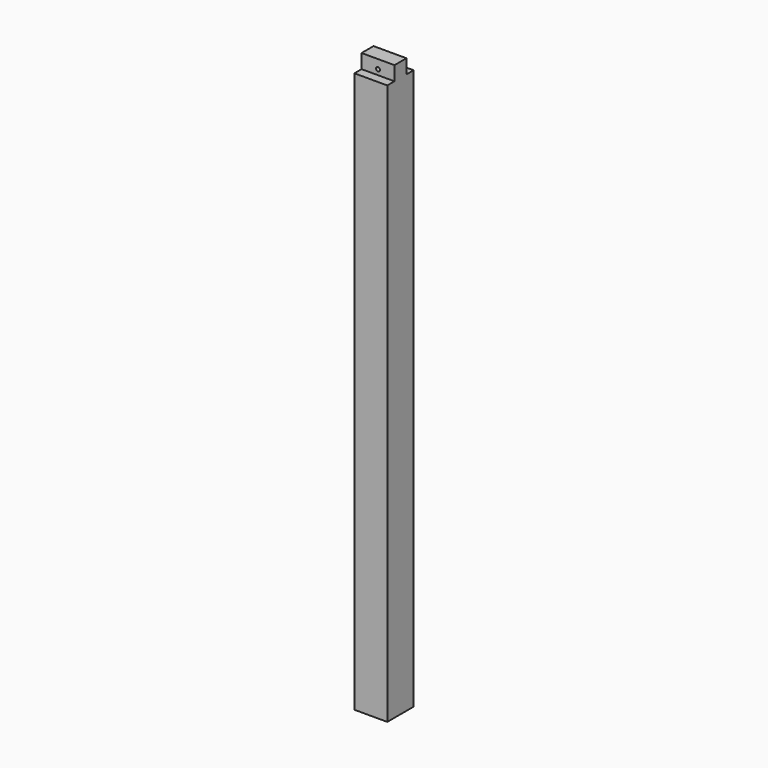
from build123d import *

# Parameters (mm, degrees)
F0_W     = 139.7
F0_H     = 139.7
F1_DEPTH = 2438.4
F2_W     = 38.1
F2_H     = 60.325
F3_DEPTH = 139.701
F5_D     = 16.66748


with BuildPart() as f1:
    # F0 (on Top) → F1 (new body)
    with BuildSketch(Plane.XY):
        with Locations((69.85, 69.85)):
            Rectangle(F0_W, F0_H)
    extrude(amount=F1_DEPTH)

    # F2 (on face) → F3 (cut, through all)
    with BuildSketch(Plane.YZ.offset(139.7)):
        with Locations((19.05, 2408.2375)):
            Rectangle(F2_W, F2_H)
        with Locations((120.65, 2408.2375)):
            Rectangle(F2_W, F2_H)
    extrude(amount=-F3_DEPTH, mode=Mode.SUBTRACT)

    # F5 (through all)
    with Locations(Plane(origin=(0, 139.7, 0), x_dir=(-1, 0, 0), z_dir=(0, 1, 0))):
        with Locations((-69.85, 2400.3)):
            Hole(F5_D / 2)


solid = f1.part
